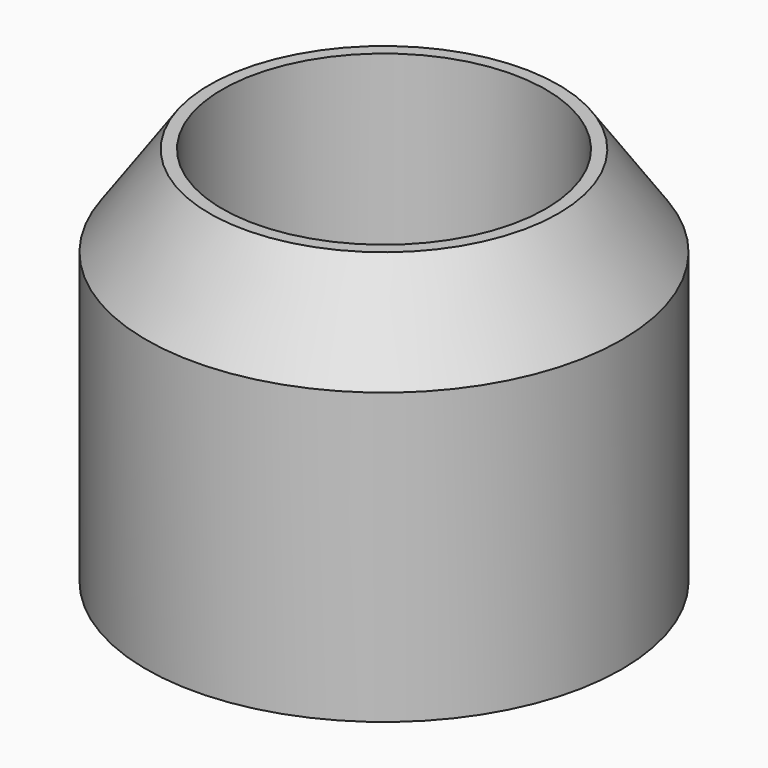
from build123d import *

# Parameters (mm, degrees)
F0_R     = 3.75
F1_DEPTH = 6
F2_R     = 2.55
F3_DEPTH = 6
F4_SIZE2 = 1.4281480067
F4_SIZE  = 1


with BuildPart() as f1:
    # F0 (on Top) → F1 (new body)
    with BuildSketch(Plane.XY):
        Circle(F0_R)
    extrude(amount=F1_DEPTH)

    # F2 (on face) → F3 (cut, through all)
    with BuildSketch(Plane.XY.offset(6)):
        Circle(F2_R)
    extrude(amount=-F3_DEPTH, mode=Mode.SUBTRACT)

    # F4
    f4_edges = [f1.edges().sort_by_distance(p)[0] for p in [
        (-3.75, 0, 6),
    ]]
    f4_side = f1.faces().sort_by_distance((-3.643934, 0, 6))[0]
    chamfer(f4_edges, length=F4_SIZE, length2=F4_SIZE2, reference=f4_side)


solid = f1.part
